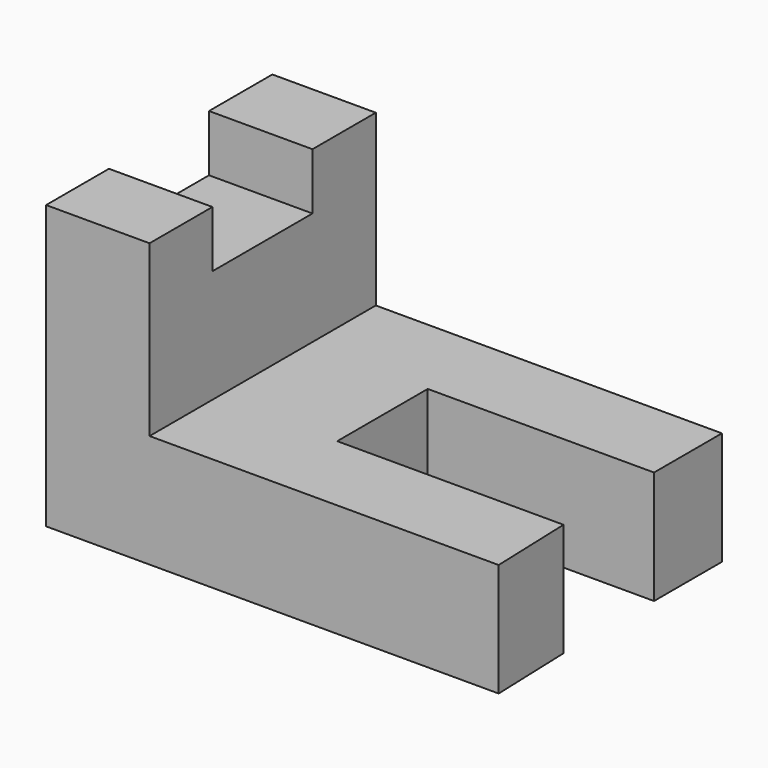
from build123d import *

# Parameters (mm, degrees)
F1_DEPTH = 50.8
F2_W     = 46.454286
F2_H     = 126.976152
F3_DEPTH = 76.2
F4_W     = 56.145773
F4_H     = 25.4
F5_DEPTH = 50.8


with BuildPart() as f1:
    # F0 (on Top) → F1 (new body)
    with BuildSketch(Plane.XY):
        Polygon((103.246617, 29.007021), (-98.60556, 29.007021), (-98.60556, -97.969131), (104.59444, -97.969131), (103.246617, -59.892979), (1.646617, -59.892979), (1.646617, -9.092979), (103.246617, -9.092979), align=None)
    extrude(amount=F1_DEPTH)

    # F2 (on face) → F3 (join)
    with BuildSketch(Plane.XY.offset(50.8)):
        with Locations((-75.378417, -34.481055)):
            Rectangle(F2_W, F2_H)
    extrude(amount=F3_DEPTH)

    # F4 (on face) → F5 (cut)
    with BuildSketch(Plane.YZ.offset(-52.151274)):
        with Locations((-34.605823, 114.3)):
            Rectangle(F4_W, F4_H)
    extrude(amount=-F5_DEPTH, mode=Mode.SUBTRACT)


solid = f1.part
